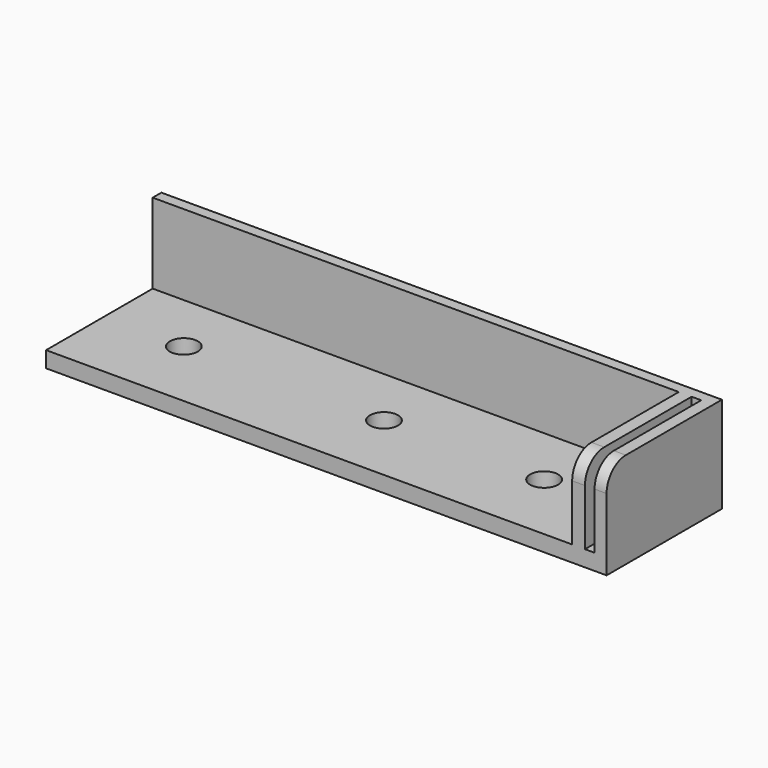
from build123d import *

# Parameters (mm, degrees)
F0_W     = 1.5
F0_H     = 16.642398566
F0_W_2   = 1.6
F1_DEPTH = 12
F0_W_3   = 65.7
F0_R     = 1.75
F0_W_4   = 1.2
F2_DEPTH = 2
F3_R     = 3


with BuildPart() as f1:
    # F0 (on Top) → F1 (new body)
    with BuildSketch(Plane.XY):
        Polygon((49.7141629457, -7.7906338274), (-20.2858370543, -7.7906338274), (-20.2858370543, -9.1482352614), (45.4141629457, -9.1482352614), (47.0141629457, -9.1482352614), (48.2141629457, -9.1482352614), (49.7141629457, -9.1482352614), align=None)
        with Locations((48.9641629457, -17.4694345444)):
            Rectangle(F0_W, F0_H)
        with Locations((46.2141629457, -17.4694345444)):
            Rectangle(F0_W_2, F0_H)
    extrude(amount=F1_DEPTH)

    # F0 (on Top) → F2 (join)
    with BuildSketch(Plane.XY):
        with Locations((12.5641629457, -17.4694345444)):
            Rectangle(F0_W_3, F0_H)
        with Locations((-10.2858370543, -16.7906338274)):
            Circle(F0_R, mode=Mode.SUBTRACT)
        with Locations((14.7141629457, -16.7906338274)):
            Circle(F0_R, mode=Mode.SUBTRACT)
        with Locations((34.7141629457, -16.7906338274)):
            Circle(F0_R, mode=Mode.SUBTRACT)
        with Locations((47.6141629457, -17.4694345444)):
            Rectangle(F0_W_4, F0_H)
    extrude(amount=F2_DEPTH)

    # F3
    f3_edges = [f1.edges().sort_by_distance(p)[0] for p in [
        (48.964163, -25.790634, 12),
        (46.214163, -25.790634, 12),
    ]]
    fillet(f3_edges, radius=F3_R)


solid = f1.part
